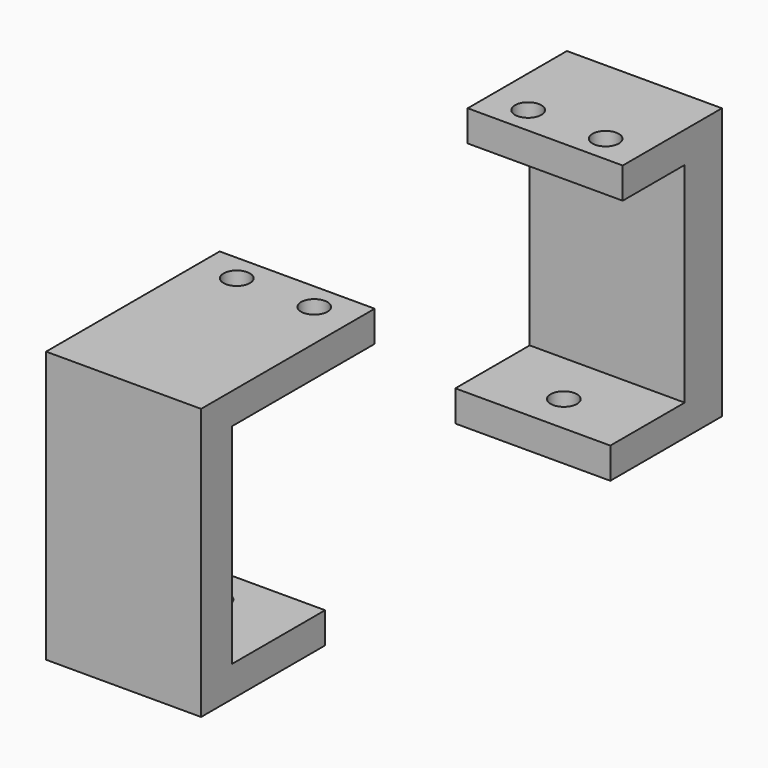
from build123d import *

# Parameters (mm, degrees)
CYLINDER021_R              = 1.7
CYLINDER021_DEPTH          = 10
BOX009_W                   = 20
BOX009_H                   = 15
BOX009_DEPTH               = 27
RECTANGLE003_W             = 20
RECTANGLE003_H             = 20
EXTRUDE_DEPTH              = 35
CUT026_W                   = 15
CUT026_H                   = 20
CUT026_R                   = 1.7
EXTRUDE003_DEPTH           = 4
EXTRUDE003_PLACEMENT_ANGLE = 180
RECTANGLE002_W             = 20
RECTANGLE002_H             = 6
EXTRUDE002_DEPTH           = 35
EXTRUDE004_DEPTH           = 4
CYLINDER022_R              = 1.7
CYLINDER022_DEPTH          = 10
BOX010_W                   = 20
BOX010_H                   = 18
BOX010_DEPTH               = 4
FUSION007_PLACEMENT_ANGLE  = 180


with BuildPart() as cylindre022:
    # Cylinder021 → Cylinder021 (new body)
    with BuildSketch(Plane(origin=(0, -30, 8), x_dir=(1, 0, 0), z_dir=(0, 0, 1))):
        Circle(CYLINDER021_R)
    extrude(amount=CYLINDER021_DEPTH)


with BuildPart() as cube009:
    # Box009 → Box009 (new body)
    with BuildSketch(Plane(origin=(-10, -40, 4), x_dir=(1, 0, 0), z_dir=(0, 0, 1))):
        with Locations((10, 7.5)):
            Rectangle(BOX009_W, BOX009_H)
    extrude(amount=BOX009_DEPTH)


with BuildPart() as cut024:
    # Rectangle003 → Extrude (new body)
    with BuildSketch(Plane(origin=(-10, -25, 0), x_dir=(1, 0, 0), z_dir=(0, 0, 1))):
        with Locations((10, -10)):
            Rectangle(RECTANGLE003_W, RECTANGLE003_H)
    extrude(amount=EXTRUDE_DEPTH)

    # Cut023: cut Cube009
    add(cube009.part, mode=Mode.SUBTRACT)


with BuildPart() as cut024_1:
    # Cut023 placement: moved
    add(cut024.part.moved(Location((0, 0, -20))))

    # Cut024: cut Cylindre022
    add(cylindre022.part, mode=Mode.SUBTRACT)


with BuildPart() as fixation_servo_large:
    # Cut026 → Extrude003 (new body)
    with BuildSketch(Plane(origin=(0, -17.242289, 0), x_dir=(0, -1, 0), z_dir=(0, 0, -1))):
        with Locations((0.257711, 0)):
            Rectangle(CUT026_W, CUT026_H)
        with Locations((4.257711, -5)):
            Circle(CUT026_R, mode=Mode.SUBTRACT)
        with Locations((4.257711, 5)):
            Circle(CUT026_R, mode=Mode.SUBTRACT)
    extrude(amount=-EXTRUDE003_DEPTH)


with BuildPart() as fixation_servo_large_1:
    # Extrude003 placement: moved
    add(fixation_servo_large.part.moved(Location((0, -42, -20))).rotate(Axis((0, -42, -20), (0, 0, 1)), EXTRUDE003_PLACEMENT_ANGLE))

    # Fusion005: union Cut024
    add(cut024_1.part)


with BuildPart() as fixation_servo_large_2:
    # Fusion005 placement: moved
    add(fixation_servo_large_1.part.moved(Location((0, 2, 0))))


with BuildPart() as extrude002:
    # Rectangle002 → Extrude002 (new body)
    with BuildSketch(Plane(origin=(-10, 27, 0), x_dir=(1, 0, 0), z_dir=(0, 0, 1))):
        with Locations((10, 3)):
            Rectangle(RECTANGLE002_W, RECTANGLE002_H)
    extrude(amount=EXTRUDE002_DEPTH)


with BuildPart() as extrude002_1:
    # Extrude002 placement: moved
    add(extrude002.part.moved(Location((0, 0, -20))))


with BuildPart() as extrude004:
    # Cut026 → Extrude004 (new body)
    with BuildSketch(Plane(origin=(0, -17.242289, 0), x_dir=(0, -1, 0), z_dir=(0, 0, -1))):
        with Locations((0.257711, 0)):
            Rectangle(CUT026_W, CUT026_H)
        with Locations((4.257711, -5)):
            Circle(CUT026_R, mode=Mode.SUBTRACT)
        with Locations((4.257711, 5)):
            Circle(CUT026_R, mode=Mode.SUBTRACT)
    extrude(amount=-EXTRUDE004_DEPTH)


with BuildPart() as extrude004_1:
    # Extrude004 placement: moved
    add(extrude004.part.moved(Location((0, 42, -20))))


with BuildPart() as cylindre023:
    # Cylinder022 → Cylinder022 (new body)
    with BuildSketch(Plane(origin=(0, 20, -2), x_dir=(1, 0, 0), z_dir=(0, 0, 1))):
        Circle(CYLINDER022_R)
    extrude(amount=CYLINDER022_DEPTH)


with BuildPart() as fixation:
    # Box010 → Box010 (new body)
    with BuildSketch(Plane(origin=(-10, 15, 1), x_dir=(1, 0, 0), z_dir=(0, 0, 1))):
        with Locations((10, 9)):
            Rectangle(BOX010_W, BOX010_H)
    extrude(amount=BOX010_DEPTH)

    # Cut025: cut Cylindre023
    add(cylindre023.part, mode=Mode.SUBTRACT)


with BuildPart() as fixation_1:
    # Cut025 placement: moved
    add(fixation.part.moved(Location((0, 0, 10))))

    # Fusion006: union Extrude002, Extrude004
    add(extrude002_1.part)
    add(extrude004_1.part)


with BuildPart() as fixation_2:
    # Fusion006 placement: moved
    add(fixation_1.part.moved(Location((0, 8, 0))))

    # Fusion007: union fixation  servo large
    add(fixation_servo_large_2.part)


with BuildPart() as fixation_3:
    # Fusion007 placement: moved
    add(fixation_2.part.moved(Location((0, 0, 103))).rotate(Axis((0, 0, 103), (0, 1, 0)), FUSION007_PLACEMENT_ANGLE))


solid = fixation_3.part
